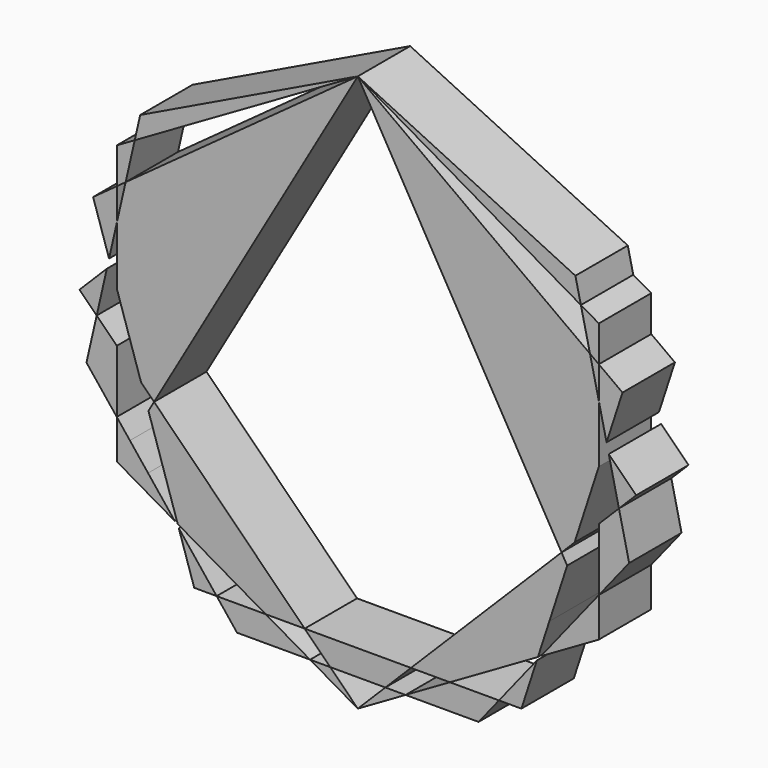
from build123d import *

# Parameters (mm, degrees)
F1_DEPTH = 25.4


with BuildPart() as f1:
    # F0 (on Front) → F1 (new body)
    with BuildSketch(Plane.XZ):
        Polygon((86.5237025398, 57.9955170473), (84.3987085324, 67.3057241107), (0, 107.95), align=None)
    extrude(amount=F1_DEPTH)


with BuildPart() as f1b:
    # F0 (on Front) → F1, piece 2 (new body)
    with BuildSketch(Plane.XZ):
        Polygon((101.2825929907, -6.6674070093), (107.95, 0), (97.3388825316, 10.6111174684), align=None)
    extrude(amount=F1_DEPTH)


with BuildPart() as f1c:
    # F0 (on Front) → F1, piece 3 (new body)
    with BuildSketch(Plane.XZ):
        Polygon((88.3929284935, -45.1510431805), (93.4874423385, -53.975), (93.4874423385, -38.7627248791), align=None)
        Polygon((81.3560577453, -53.975), (93.4874423385, -53.975), (88.3929284935, -45.1510431805), align=None)
        Polygon((71.0043670346, -66.9556095789), (93.4874423385, -53.975), (81.3560577453, -53.975), align=None)
    extrude(amount=F1_DEPTH)


with BuildPart() as f1d:
    # F0 (on Front) → F1, piece 4 (new body)
    with BuildSketch(Plane.XZ):
        Polygon((54.7536337763, -87.3333845428), (63.451417985, -87.3333845428), (69.4318630581, -68.9274671963), align=None)
    extrude(amount=F1_DEPTH)


with BuildPart() as f1e:
    # F0 (on Front) → F1, piece 5 (new body)
    with BuildSketch(Plane.XZ):
        Polygon((10.6904107099, -97.2595892901), (0, -107.95), (18.5163345034, -97.2595892901), align=None)
    extrude(amount=F1_DEPTH)


with BuildPart() as f1f:
    # F0 (on Front) → F1, piece 6 (new body)
    with BuildSketch(Plane.XZ):
        Polygon((-18.5163345034, -97.2595892901), (0, -107.95), (-10.6904107099, -97.2595892901), align=None)
    extrude(amount=F1_DEPTH)


with BuildPart() as f1g:
    # F0 (on Front) → F1, piece 7 (new body)
    with BuildSketch(Plane.XZ):
        Polygon((-69.4318630581, -68.9274671963), (-63.451417985, -87.3333845428), (-54.7536337763, -87.3333845428), align=None)
    extrude(amount=F1_DEPTH)


with BuildPart() as f1h:
    # F0 (on Front) → F1, piece 8 (new body)
    with BuildSketch(Plane.XZ):
        Polygon((-71.0043670346, -66.9556095789), (-81.3560577453, -53.975), (-93.4874423385, -53.975), align=None)
        Polygon((-81.3560577453, -53.975), (-88.3929284935, -45.1510431805), (-93.4874423385, -53.975), align=None)
        Polygon((-93.4874423385, -53.975), (-88.3929284935, -45.1510431805), (-93.4874423385, -38.7627248791), align=None)
    extrude(amount=F1_DEPTH)


with BuildPart() as f1i:
    # F0 (on Front) → F1, piece 9 (new body)
    with BuildSketch(Plane.XZ):
        Polygon((-101.2825929907, -6.6674070093), (-97.3388825316, 10.6111174684), (-107.95, 0), align=None)
    extrude(amount=F1_DEPTH)


with BuildPart() as f1j:
    # F0 (on Front) → F1, piece 10 (new body)
    with BuildSketch(Plane.XZ):
        Polygon((-86.5237025398, 57.9955170473), (0, 107.95), (-84.3987085324, 67.3057241107), align=None)
    extrude(amount=F1_DEPTH)


with BuildPart() as f1k:
    # F0 (on Front) → F1, piece 11 (new body)
    with BuildSketch(Plane.XZ):
        Polygon((93.4874423385, 40.0273973066), (93.4874423385, 53.975), (86.5237025398, 57.9955170473), (90.0557331124, 42.5206800031), align=None)
    extrude(amount=F1_DEPTH)


with BuildPart() as f1l:
    # F0 (on Front) → F1, piece 12 (new body)
    with BuildSketch(Plane.XZ):
        Polygon((93.4874423385, 14.4625576615), (93.4874423385, 27.4853794967), (90.0557331124, 42.5206800031), (0, 107.95), align=None)
        Polygon((84.0680334422, -23.8819665578), (93.4874423385, 5.1079931324), (93.4874423385, 14.4625576615), (0, 107.95), (79.0248846771, -28.9251153229), align=None)
    extrude(amount=F1_DEPTH)


with BuildPart() as f1m:
    # F0 (on Front) → F1, piece 13 (new body)
    with BuildSketch(Plane.XZ):
        Polygon((96.4875062817, 14.3412405407), (102.6665509341, 33.3583845428), (93.4874423385, 40.0273973066), (93.4874423385, 27.4853794967), align=None)
    extrude(amount=F1_DEPTH)


with BuildPart() as f1n:
    # F0 (on Front) → F1, piece 14 (new body)
    with BuildSketch(Plane.XZ):
        Polygon((93.4874423385, -38.7627248791), (105.24346812, -24.0211348206), (101.2825929907, -6.6674070093), (93.4874423385, -14.4625576615), align=None)
    extrude(amount=F1_DEPTH)


with BuildPart() as f1o:
    # F0 (on Front) → F1, piece 15 (new body)
    with BuildSketch(Plane.XZ):
        Polygon((18.5163345034, -97.2595892901), (46.8377496377, -97.2595892901), (54.7536337763, -87.3333845428), (35.709025452, -87.3333845428), align=None)
    extrude(amount=F1_DEPTH)


with BuildPart() as f1p:
    # F0 (on Front) → F1, piece 16 (new body)
    with BuildSketch(Plane.XZ):
        Polygon((-54.7536337763, -87.3333845428), (-46.8377496377, -97.2595892901), (-18.5163345034, -97.2595892901), (-35.709025452, -87.3333845428), align=None)
    extrude(amount=F1_DEPTH)


with BuildPart() as f1q:
    # F0 (on Front) → F1, piece 17 (new body)
    with BuildSketch(Plane.XZ):
        Polygon((-93.4874423385, -38.7627248791), (-93.4874423385, -14.4625576615), (-101.2825929907, -6.6674070093), (-105.24346812, -24.0211348206), align=None)
    extrude(amount=F1_DEPTH)


with BuildPart() as f1r:
    # F0 (on Front) → F1, piece 18 (new body)
    with BuildSketch(Plane.XZ):
        Polygon((-96.4875062817, 14.3412405407), (-93.4874423385, 27.4853794967), (-93.4874423385, 40.0273973066), (-102.6665509341, 33.3583845428), align=None)
    extrude(amount=F1_DEPTH)


with BuildPart() as f1s:
    # F0 (on Front) → F1, piece 19 (new body)
    with BuildSketch(Plane.XZ):
        Polygon((-93.4874423385, 14.4625576615), (0, 107.95), (-90.0557331124, 42.5206800031), (-93.4874423385, 27.4853794967), align=None)
        Polygon((-79.0248846771, -28.9251153229), (0, 107.95), (-93.4874423385, 14.4625576615), (-93.4874423385, 5.1079931324), (-84.0680334422, -23.8819665578), align=None)
    extrude(amount=F1_DEPTH)


with BuildPart() as f1t:
    # F0 (on Front) → F1, piece 20 (new body)
    with BuildSketch(Plane.XZ):
        Polygon((-90.0557331124, 42.5206800031), (-86.5237025398, 57.9955170473), (-93.4874423385, 53.975), (-93.4874423385, 40.0273973066), align=None)
    extrude(amount=F1_DEPTH)


with BuildPart() as f1u:
    # F0 (on Front) → F1, piece 21 (new body)
    with BuildSketch(Plane.XZ):
        Polygon((-53.975, -53.975), (-79.0248846771, -28.9251153229), (-81.2033973378, -32.6984099363), (-74.2902141574, -53.975), align=None)
        Polygon((-20.6166154572, -87.3333845428), (-53.975, -53.975), (-74.2902141574, -53.975), (-69.8573951409, -67.6178141105), (-35.709025452, -87.3333845428), align=None)
    extrude(amount=F1_DEPTH)


with BuildPart() as f1v:
    # F0 (on Front) → F1, piece 22 (new body)
    with BuildSketch(Plane.XZ):
        Polygon((35.709025452, -87.3333845428), (69.8573951409, -67.6178141105), (74.2902141574, -53.975), (53.975, -53.975), (20.6166154572, -87.3333845428), align=None)
        Polygon((74.2902141574, -53.975), (81.2033973378, -32.6984099363), (79.0248846771, -28.9251153229), (53.975, -53.975), align=None)
    extrude(amount=F1_DEPTH)


with BuildPart() as f1w:
    # F0 (on Front) → F1, piece 23 (new body)
    with BuildSketch(Plane.XZ):
        Polygon((-10.6904107099, -97.2595892901), (10.6904107099, -97.2595892901), (20.6166154572, -87.3333845428), (-20.6166154572, -87.3333845428), align=None)
    extrude(amount=F1_DEPTH)


solid = Compound([f1.part, f1b.part, f1c.part, f1d.part, f1e.part, f1f.part, f1g.part, f1h.part, f1i.part, f1j.part, f1k.part, f1l.part, f1m.part, f1n.part, f1o.part, f1p.part, f1q.part, f1r.part, f1s.part, f1t.part, f1u.part, f1v.part, f1w.part])
